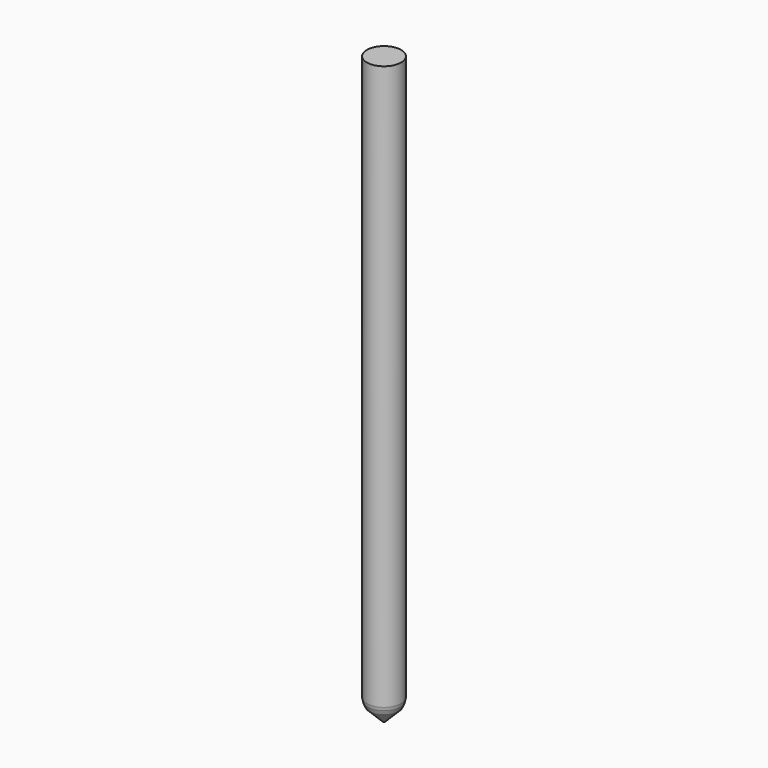
from build123d import *

# Parameters (mm, degrees)
F0_W     = 24.73539114
F0_H     = 419.7955727577
F2_DEPTH = 425.6457388401
F3_SIZE  = 22.86
F4_SIZE  = 5.08
F5_SIZE  = 2.54


with BuildPart() as f1:
    # F0 (on Front) → F1 (revolve)
    with BuildSketch(Plane.XZ):
        with Locations((-12.36769557, -30.4397642612)):
            Rectangle(F0_W, F0_H)
    revolve(axis=Axis((0, 0, -30.4397642612), (0, 0, -1)))

    # F2 (add): a face of the model
    f2_faces = [f1.faces().sort_by_distance(p)[0] for p in [
        (0, 0, -240.3375506401),
    ]]
    extrude(f2_faces, amount=F2_DEPTH)

    # F3
    f3_edges = [f1.edges().sort_by_distance(p)[0] for p in [
        (24.735391, 0, -665.983289),
    ]]
    chamfer(f3_edges, length=F3_SIZE)

    # F4
    f4_edges = [f1.edges().sort_by_distance(p)[0] for p in [
        (24.735391, 0, -643.123289),
    ]]
    chamfer(f4_edges, length=F4_SIZE)

    # F5
    f5_edges = [f1.edges().sort_by_distance(p)[0] for p in [
        (24.735385, 0, -638.043289),
    ]]
    chamfer(f5_edges, length=F5_SIZE)


solid = f1.part
